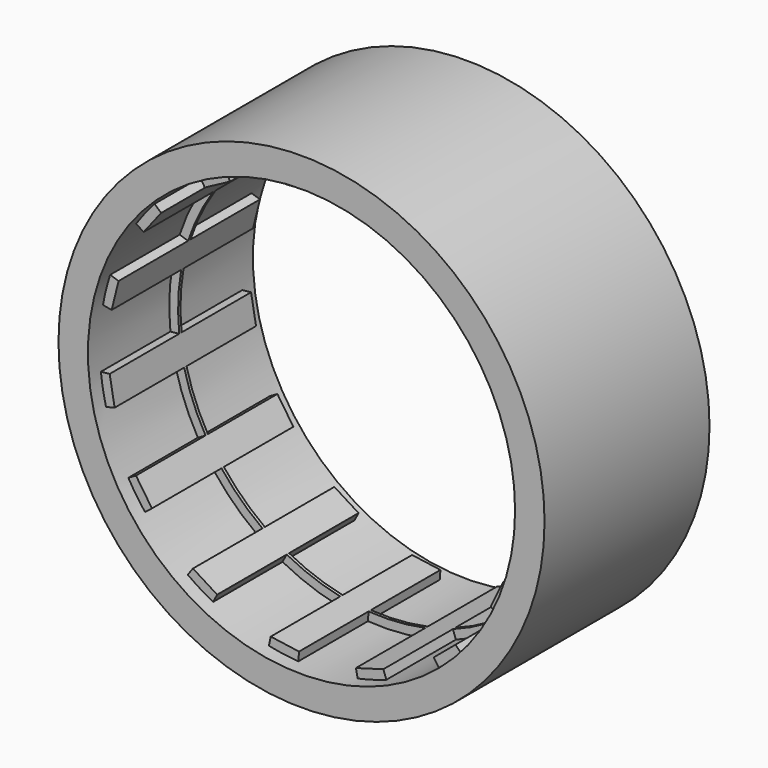
from build123d import *

# Parameters (mm, degrees)
F0_R     = 20.955
F0_R_2   = 18.415
F3_DEPTH = 8.89
F4_DEPTH = 7.62
F5_DEPTH = 0.127


with BuildPart() as f3:
    # F0 (on Front) → F3 (new body, symmetric)
    with BuildSketch(Plane.XZ):
        Circle(F0_R)
        Circle(F0_R_2, mode=Mode.SUBTRACT)
    extrude(amount=F3_DEPTH, both=True)

    # F1 (on face) → F4 (join, symmetric)
    with BuildSketch(Plane.XZ):
        with BuildLine():
            Line((0, 17.653), (0, 18.415))
            ThreePointArc((0, 18.415), (-1.2933093709, 18.4951856795), (-2.5628726542, 18.2357864859))
            Line((-2.5628726542, 18.2357864859), (-2.4568227512, 17.4812022175))
            Line((-2.4568227512, 17.4812022175), (0, 17.653))
        make_face()
        with BuildLine():
            Line((-7.1801219602, 16.1268179638), (-7.4900552822, 16.8229396025))
            ThreePointArc((-7.4900552822, 16.8229396025), (-8.7041666374, 16.3701565538), (-9.7584632509, 15.6168056907))
            Line((-9.7584632509, 15.6168056907), (-9.3546647715, 14.9705930414))
            Line((-9.3546647715, 14.9705930414), (-7.1801219602, 16.1268179638))
        make_face()
        with BuildLine():
            Line((-13.1187356042, 11.8121625941), (-13.6850119612, 12.3220401161))
            ThreePointArc((-13.6850119612, 12.3220401161), (-14.6099944175, 11.4145786418), (-15.2667268986, 10.2975373174))
            Line((-15.2667268986, 10.2975373174), (-14.6350002683, 9.871432325))
            Line((-14.6350002683, 9.871432325), (-13.1187356042, 11.8121625941))
        make_face()
        with BuildLine():
            Line((-16.7890006822, 5.4550770017), (-17.5137057476, 5.6905479514))
            ThreePointArc((-17.5137057476, 5.6905479514), (-17.9896214352, 4.4853163843), (-18.1352347717, 3.1977311917))
            Line((-18.1352347717, 3.1977311917), (-17.3848112639, 3.0654112804))
            Line((-17.3848112639, 3.0654112804), (-16.7890006822, 5.4550770017))
        make_face()
        with BuildLine():
            Line((-17.5562950189, -1.8452409621), (-18.3141207032, -1.9248916511))
            ThreePointArc((-18.3141207032, -1.9248916511), (-18.2586794761, -3.2194978237), (-17.8679957994, -4.4549917075))
            Line((-17.8679957994, -4.4549917075), (-17.128630456, -4.270647223))
            Line((-17.128630456, -4.270647223), (-17.5562950189, -1.8452409621))
        make_face()
        with BuildLine():
            Line((-15.287946453, -8.8265), (-15.9478578107, -9.2075))
            ThreePointArc((-15.9478578107, -9.2075), (-15.3706459607, -10.3676316099), (-14.5112180277, -11.3374060681))
            Line((-14.5112180277, -11.3374060681), (-13.9107538334, -10.8682720239))
            Line((-13.9107538334, -10.8682720239), (-15.287946453, -8.8265))
        make_face()
        with BuildLine():
            Line((-10.3761730587, -14.2815770017), (-10.824065421, -14.8980479514))
            ThreePointArc((-10.824065421, -14.8980479514), (-9.8248881208, -15.7231077037), (-8.6453188287, -16.2594799225))
            Line((-8.6453188287, -16.2594799225), (-8.2875814979, -15.5866738567))
            Line((-8.2875814979, -15.5866738567), (-10.3761730587, -14.2815770017))
        make_face()
        with BuildLine():
            Line((-3.670265078, -17.2672395958), (-3.8286937864, -18.0125880675))
            ThreePointArc((-3.8286937864, -18.0125880675), (-2.5803178685, -18.3599156356), (-1.284565464, -18.3701419855))
            Line((-1.284565464, -18.3701419855), (-1.231411031, -17.6099981792))
            Line((-1.231411031, -17.6099981792), (-3.670265078, -17.2672395958))
        make_face()
        with BuildLine():
            Line((3.670265078, -17.2672395958), (3.8286937864, -18.0125880675))
            ThreePointArc((3.8286937864, -18.0125880675), (5.1104127847, -17.8221273595), (6.2983009393, -17.3044396118))
            Line((6.2983009393, -17.3044396118), (6.0376815901, -16.5883938347))
            Line((6.0376815901, -16.5883938347), (3.670265078, -17.2672395958))
        make_face()
        with BuildLine():
            Line((10.3761730587, -14.2815770017), (10.824065421, -14.8980479514))
            ThreePointArc((10.824065421, -14.8980479514), (11.9175066409, -14.202731354), (12.792133892, -13.2466424232))
            Line((12.792133892, -13.2466424232), (12.2628042137, -12.6985054954))
            Line((12.2628042137, -12.6985054954), (10.3761730587, -14.2815770017))
        make_face()
        with BuildLine():
            Line((15.287946453, -8.8265), (15.9478578107, -9.2075))
            ThreePointArc((15.9478578107, -9.2075), (16.6639553316, -8.1275540696), (17.0740906818, -6.8983804178))
            Line((17.0740906818, -6.8983804178), (16.3675765847, -6.6129301936))
            Line((16.3675765847, -6.6129301936), (15.287946453, -8.8265))
        make_face()
        with BuildLine():
            Line((17.5562950189, -1.8452409621), (18.3141207032, -1.9248916511))
            ThreePointArc((18.3141207032, -1.9248916511), (18.5290547583, -0.6470488501), (18.4037820796, 0.6426742318))
            Line((18.4037820796, 0.6426742318), (17.6422462694, 0.6160808153))
            Line((17.6422462694, 0.6160808153), (17.5562950189, -1.8452409621))
        make_face()
        with BuildLine():
            Line((16.7890006822, 5.4550770017), (17.5137057476, 5.6905479514))
            ThreePointArc((17.5137057476, 5.6905479514), (17.190312286, 6.9453369939), (16.5512923626, 8.0726046681))
            Line((16.5512923626, 8.0726046681), (15.8664112993, 7.7385658543))
            Line((15.8664112993, 7.7385658543), (16.7890006822, 5.4550770017))
        make_face()
        with BuildLine():
            Line((13.1187356042, 11.8121625941), (13.6850119612, 12.3220401161))
            ThreePointArc((13.6850119612, 12.3220401161), (12.8792086504, 13.3368109752), (11.8369338324, 14.10670842))
            Line((11.8369338324, 14.10670842), (11.3471296738, 13.5229825544))
            Line((11.3471296738, 13.5229825544), (13.1187356042, 11.8121625941))
        make_face()
        with BuildLine():
            Line((7.1801219602, 16.1268179638), (7.4900552822, 16.8229396025))
            ThreePointArc((7.4900552822, 16.8229396025), (6.3411728353, 17.4222291778), (5.0758619074, 17.7016341307))
            Line((5.0758619074, 17.7016341307), (4.8658262422, 16.9691527184))
            Line((4.8658262422, 16.9691527184), (7.1801219602, 16.1268179638))
        make_face()
    extrude(amount=F4_DEPTH, both=True)

    # F2 (on face) → F5 (join, symmetric)
    with BuildSketch(Plane.XZ):
        with BuildLine():
            Line((15.8664112993, 7.7385658543), (16.7890006822, 5.4550770017))
            ThreePointArc((16.7890006822, 5.4550770017), (16.3675765847, 6.6129301936), (15.8664112993, 7.7385658543))
        make_face()
        with BuildLine():
            Line((11.3471296738, 13.5229825544), (13.1187356042, 11.8121625941))
            ThreePointArc((13.1187356042, 11.8121625941), (12.2628042137, 12.6985054954), (11.3471296738, 13.5229825544))
        make_face()
        with BuildLine():
            Line((4.8658262422, 16.9691527184), (7.1801219602, 16.1268179638))
            ThreePointArc((7.1801219602, 16.1268179638), (6.0376815901, 16.5883938347), (4.8658262422, 16.9691527184))
        make_face()
        with BuildLine():
            Line((-2.4568227512, 17.4812022175), (0, 17.653))
            ThreePointArc((0, 17.653), (-1.231411031, 17.6099981792), (-2.4568227512, 17.4812022175))
        make_face()
        with BuildLine():
            Line((-9.3546647715, 14.9705930414), (-7.1801219602, 16.1268179638))
            ThreePointArc((-7.1801219602, 16.1268179638), (-8.2875814979, 15.5866738567), (-9.3546647715, 14.9705930414))
        make_face()
        with BuildLine():
            Line((-14.6350002683, 9.871432325), (-13.1187356042, 11.8121625941))
            ThreePointArc((-13.1187356042, 11.8121625941), (-13.9107538334, 10.8682720239), (-14.6350002683, 9.871432325))
        make_face()
        with BuildLine():
            Line((-17.3848112639, 3.0654112804), (-16.7890006822, 5.4550770017))
            ThreePointArc((-16.7890006822, 5.4550770017), (-17.128630456, 4.270647223), (-17.3848112639, 3.0654112804))
        make_face()
        with BuildLine():
            ThreePointArc((-17.5562950189, -1.8452409621), (-17.3848112639, -3.0654112804), (-17.128630456, -4.270647223))
            Line((-17.128630456, -4.270647223), (-17.5562950189, -1.8452409621))
        make_face()
        with BuildLine():
            ThreePointArc((-15.287946453, -8.8265), (-14.6350002683, -9.871432325), (-13.9107538334, -10.8682720239))
            Line((-13.9107538334, -10.8682720239), (-15.287946453, -8.8265))
        make_face()
        with BuildLine():
            ThreePointArc((-10.3761730587, -14.2815770017), (-9.3546647715, -14.9705930414), (-8.2875814979, -15.5866738567))
            Line((-8.2875814979, -15.5866738567), (-10.3761730587, -14.2815770017))
        make_face()
        with BuildLine():
            ThreePointArc((-3.670265078, -17.2672395958), (-2.4568227512, -17.4812022175), (-1.231411031, -17.6099981792))
            Line((-1.231411031, -17.6099981792), (-3.670265078, -17.2672395958))
        make_face()
        with BuildLine():
            ThreePointArc((3.670265078, -17.2672395958), (4.8658262422, -16.9691527184), (6.0376815901, -16.5883938347))
            Line((6.0376815901, -16.5883938347), (3.670265078, -17.2672395958))
        make_face()
        with BuildLine():
            ThreePointArc((10.3761730587, -14.2815770017), (11.3471296738, -13.5229825544), (12.2628042137, -12.6985054954))
            Line((12.2628042137, -12.6985054954), (10.3761730587, -14.2815770017))
        make_face()
        with BuildLine():
            ThreePointArc((15.287946453, -8.8265), (15.8664112993, -7.7385658543), (16.3675765847, -6.6129301936))
            Line((16.3675765847, -6.6129301936), (15.287946453, -8.8265))
        make_face()
        with BuildLine():
            ThreePointArc((17.5562950189, -1.8452409621), (17.628807177, -0.9238866356), (17.653, 0))
            ThreePointArc((17.653, 0), (17.6503113626, 0.3080873308), (17.6422462694, 0.6160808153))
            Line((17.6422462694, 0.6160808153), (17.5562950189, -1.8452409621))
        make_face()
        with BuildLine():
            ThreePointArc((-16.7890006822, 5.4550770017), (-15.8664112993, 7.7385658543), (-14.6350002683, 9.871432325))
            Line((-14.6350002683, 9.871432325), (-15.2667268986, 10.2975373174))
            ThreePointArc((-15.2667268986, 10.2975373174), (-16.5512923626, 8.0726046681), (-17.5137057476, 5.6905479514))
            Line((-17.5137057476, 5.6905479514), (-16.7890006822, 5.4550770017))
        make_face()
        with BuildLine():
            ThreePointArc((-13.1187356042, 11.8121625941), (-11.3471296738, 13.5229825544), (-9.3546647715, 14.9705930414))
            Line((-9.3546647715, 14.9705930414), (-9.7584632509, 15.6168056907))
            ThreePointArc((-9.7584632509, 15.6168056907), (-11.8369338324, 14.10670842), (-13.6850119612, 12.3220401161))
            Line((-13.6850119612, 12.3220401161), (-13.1187356042, 11.8121625941))
        make_face()
        with BuildLine():
            ThreePointArc((-7.1801219602, 16.1268179638), (-4.8658262422, 16.9691527184), (-2.4568227512, 17.4812022175))
            Line((-2.4568227512, 17.4812022175), (-2.5628726542, 18.2357864859))
            ThreePointArc((-2.5628726542, 18.2357864859), (-5.0758619074, 17.7016341307), (-7.4900552822, 16.8229396025))
            Line((-7.4900552822, 16.8229396025), (-7.1801219602, 16.1268179638))
        make_face()
        with BuildLine():
            ThreePointArc((0, 17.653), (2.4568227512, 17.4812022175), (4.8658262422, 16.9691527184))
            Line((4.8658262422, 16.9691527184), (5.0758619074, 17.7016341307))
            ThreePointArc((5.0758619074, 17.7016341307), (2.5628726542, 18.2357864859), (0, 18.415))
            Line((0, 18.415), (0, 17.653))
        make_face()
        with BuildLine():
            ThreePointArc((7.1801219602, 16.1268179638), (9.3546647715, 14.9705930414), (11.3471296738, 13.5229825544))
            Line((11.3471296738, 13.5229825544), (11.8369338324, 14.10670842))
            ThreePointArc((11.8369338324, 14.10670842), (9.7584632509, 15.6168056907), (7.4900552822, 16.8229396025))
            Line((7.4900552822, 16.8229396025), (7.1801219602, 16.1268179638))
        make_face()
        with BuildLine():
            ThreePointArc((13.1187356042, 11.8121625941), (14.6350002683, 9.871432325), (15.8664112993, 7.7385658543))
            Line((15.8664112993, 7.7385658543), (16.5512923626, 8.0726046681))
            ThreePointArc((16.5512923626, 8.0726046681), (15.2667268986, 10.2975373174), (13.6850119612, 12.3220401161))
            Line((13.6850119612, 12.3220401161), (13.1187356042, 11.8121625941))
        make_face()
        with BuildLine():
            ThreePointArc((-17.5562950189, -1.8452409621), (-17.6422462694, 0.6160808153), (-17.3848112639, 3.0654112804))
            Line((-17.3848112639, 3.0654112804), (-18.1352347717, 3.1977311917))
            ThreePointArc((-18.1352347717, 3.1977311917), (-18.4037820796, 0.6426742318), (-18.3141207032, -1.9248916511))
            Line((-18.3141207032, -1.9248916511), (-17.5562950189, -1.8452409621))
        make_face()
        with BuildLine():
            Line((-15.9478578107, -9.2075), (-15.287946453, -8.8265))
            ThreePointArc((-15.287946453, -8.8265), (-16.3675765847, -6.6129301936), (-17.128630456, -4.270647223))
            Line((-17.128630456, -4.270647223), (-17.8679957994, -4.4549917075))
            ThreePointArc((-17.8679957994, -4.4549917075), (-17.0740906818, -6.8983804178), (-15.9478578107, -9.2075))
        make_face()
        with BuildLine():
            Line((-10.824065421, -14.8980479514), (-10.3761730587, -14.2815770017))
            ThreePointArc((-10.3761730587, -14.2815770017), (-12.2628042137, -12.6985054954), (-13.9107538334, -10.8682720239))
            Line((-13.9107538334, -10.8682720239), (-14.5112180277, -11.3374060681))
            ThreePointArc((-14.5112180277, -11.3374060681), (-12.792133892, -13.2466424232), (-10.824065421, -14.8980479514))
        make_face()
        with BuildLine():
            Line((3.8286937864, -18.0125880675), (3.670265078, -17.2672395958))
            ThreePointArc((3.670265078, -17.2672395958), (1.231411031, -17.6099981792), (-1.231411031, -17.6099981792))
            Line((-1.231411031, -17.6099981792), (-1.284565464, -18.3701419855))
            ThreePointArc((-1.284565464, -18.3701419855), (1.284565464, -18.3701419855), (3.8286937864, -18.0125880675))
        make_face()
        with BuildLine():
            Line((-3.8286937864, -18.0125880675), (-3.670265078, -17.2672395958))
            ThreePointArc((-3.670265078, -17.2672395958), (-6.0376815901, -16.5883938347), (-8.2875814979, -15.5866738567))
            Line((-8.2875814979, -15.5866738567), (-8.6453188287, -16.2594799225))
            ThreePointArc((-8.6453188287, -16.2594799225), (-6.2983009393, -17.3044396118), (-3.8286937864, -18.0125880675))
        make_face()
        with BuildLine():
            Line((18.3141207032, -1.9248916511), (17.5562950189, -1.8452409621))
            ThreePointArc((17.5562950189, -1.8452409621), (17.128630456, -4.270647223), (16.3675765847, -6.6129301936))
            Line((16.3675765847, -6.6129301936), (17.0740906818, -6.8983804178))
            ThreePointArc((17.0740906818, -6.8983804178), (17.8679957994, -4.4549917075), (18.3141207032, -1.9248916511))
        make_face()
        with BuildLine():
            ThreePointArc((16.7890006822, 5.4550770017), (17.3848112639, 3.0654112804), (17.6422462694, 0.6160808153))
            Line((17.6422462694, 0.6160808153), (18.4037820796, 0.6426742318))
            ThreePointArc((18.4037820796, 0.6426742318), (18.1352347717, 3.1977311917), (17.5137057476, 5.6905479514))
            Line((17.5137057476, 5.6905479514), (16.7890006822, 5.4550770017))
        make_face()
        with BuildLine():
            Line((15.9478578107, -9.2075), (15.287946453, -8.8265))
            ThreePointArc((15.287946453, -8.8265), (13.9107538334, -10.8682720239), (12.2628042137, -12.6985054954))
            Line((12.2628042137, -12.6985054954), (12.792133892, -13.2466424232))
            ThreePointArc((12.792133892, -13.2466424232), (14.5112180277, -11.3374060681), (15.9478578107, -9.2075))
        make_face()
        with BuildLine():
            Line((10.824065421, -14.8980479514), (10.3761730587, -14.2815770017))
            ThreePointArc((10.3761730587, -14.2815770017), (8.2875814979, -15.5866738567), (6.0376815901, -16.5883938347))
            Line((6.0376815901, -16.5883938347), (6.2983009393, -17.3044396118))
            ThreePointArc((6.2983009393, -17.3044396118), (8.6453188287, -16.2594799225), (10.824065421, -14.8980479514))
        make_face()
    extrude(amount=F5_DEPTH, both=True)


solid = f3.part
